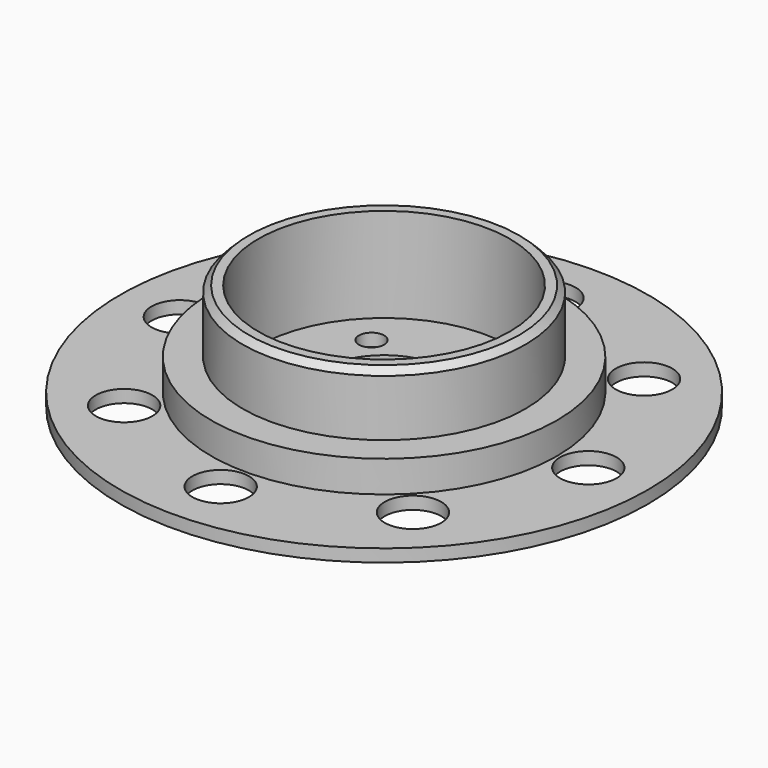
from build123d import *

# Parameters (mm, degrees)
SKETCH_R        = 42
PAD_DEPTH       = 2
SKETCH001_R     = 27.5
SKETCH001_R_2   = 20
PAD001_DEPTH    = 5
SKETCH002_R     = 22.5
SKETCH002_R_2   = 20
PAD002_DEPTH    = 10
CHAMFER_SIZE    = 1
SKETCH003_R     = 2
POCKET_DEPTH    = 2.001
SKETCH004_R     = 10
POCKET001_DEPTH = 5
SKETCH005_R     = 4.5
POCKET002_DEPTH = 2.001


with BuildPart() as part:
    # Sketch → Pad (new body)
    with BuildSketch(Plane.XY):
        Circle(SKETCH_R)
    extrude(amount=PAD_DEPTH)

    # Sketch001 (on Face3 of Pad) → Pad001 (join)
    with BuildSketch(Plane.XY.offset(2)):
        Circle(SKETCH001_R)
        Circle(SKETCH001_R_2, mode=Mode.SUBTRACT)
    extrude(amount=PAD001_DEPTH)

    # Sketch002 (on Face5 of Pad001) → Pad002 (join)
    with BuildSketch(Plane.XY.offset(7)):
        Circle(SKETCH002_R)
        Circle(SKETCH002_R_2, mode=Mode.SUBTRACT)
    extrude(amount=PAD002_DEPTH)

    # Chamfer
    chamfer_edges = [part.edges().sort_by_distance(p)[0] for p in [
        (-22.5, 0, 17),
    ]]
    chamfer(chamfer_edges, length=CHAMFER_SIZE)

    # Sketch003 (on Face10 of Chamfer) → Pocket (cut, through all)
    with BuildSketch(Plane.XY.offset(2)):
        with Locations((-10, 10)):
            Circle(SKETCH003_R)
        with Locations((10, 10)):
            Circle(SKETCH003_R)
        with Locations((10, -10)):
            Circle(SKETCH003_R)
        with Locations((-10, -10)):
            Circle(SKETCH003_R)
    extrude(amount=-POCKET_DEPTH, mode=Mode.SUBTRACT)

    # Sketch004 (on Face10 of Pocket) → Pocket001 (cut)
    with BuildSketch(Plane.XY.offset(2)):
        Circle(SKETCH004_R)
    extrude(amount=-POCKET001_DEPTH, mode=Mode.SUBTRACT)

    # Sketch005 (on Face7 of Pocket001) → Pocket002 (cut, through all)
    with BuildSketch(Plane.XY.offset(2)):
        with Locations((-22.98097, 22.98097)):
            Circle(SKETCH005_R)
        with Locations((0, 32.5)):
            Circle(SKETCH005_R)
        with Locations((22.98097, 22.98097)):
            Circle(SKETCH005_R)
        with Locations((32.5, 0)):
            Circle(SKETCH005_R)
        with Locations((-32.5, 0)):
            Circle(SKETCH005_R)
        with Locations((-22.98097, -22.98097)):
            Circle(SKETCH005_R)
        with Locations((0, -32.5)):
            Circle(SKETCH005_R)
        with Locations((22.98097, -22.98097)):
            Circle(SKETCH005_R)
    extrude(amount=-POCKET002_DEPTH, mode=Mode.SUBTRACT)


solid = part.part
